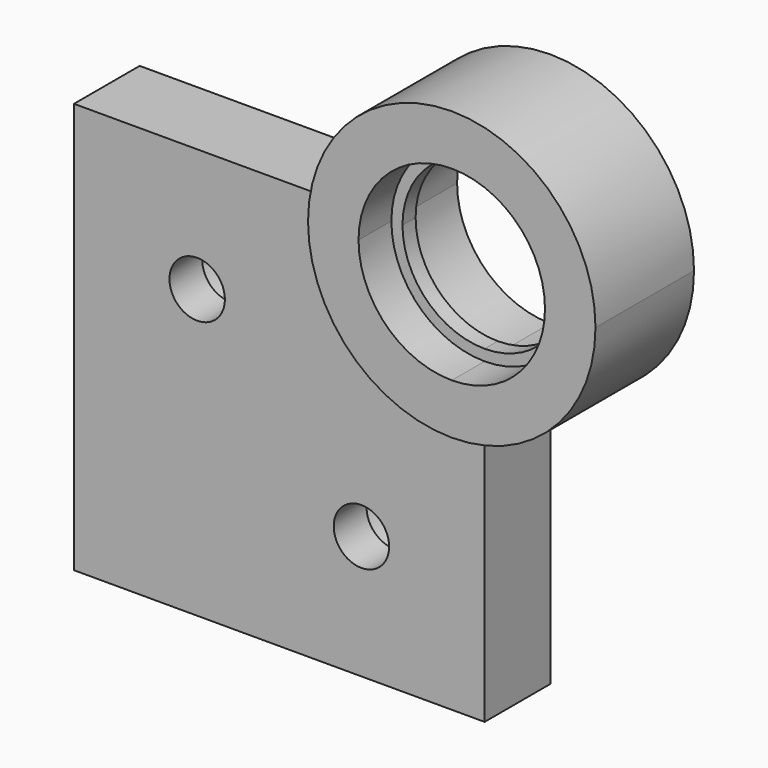
from build123d import *

# Parameters (mm, degrees)
F0_R          = 8.255
F1_DEPTH      = 12.7
F0_R_2        = 4.28625
F2_DEPTH      = 6.35
F3_DEPTH      = 12.7
F3_DEPTH_BACK = 6.35
F4_DEPTH      = 2.54


with BuildPart() as f1:
    # F0 (on Front) → F1 (new body)
    with BuildSketch(Plane.XZ):
        with BuildLine():
            ThreePointArc((0, -22.225), (-15.715448, -15.715448), (-22.225, 0))
            Line((-22.225, 0), (-63.5, 0))
            Line((-63.5, 0), (-63.5, -63.5))
            Line((-63.5, -63.5), (0, -63.5))
            Line((0, -63.5), (0, -22.225))
        make_face()
        with Locations((-19.05, -44.45)):
            Circle(F0_R, mode=Mode.SUBTRACT)
        with Locations((-44.45, -19.05)):
            Circle(F0_R, mode=Mode.SUBTRACT)
    extrude(amount=F1_DEPTH)

    # F0 (on Front) → F2 (join)
    with BuildSketch(Plane.XZ):
        with Locations((-44.45, -19.05)):
            Circle(F0_R)
        with Locations((-44.45, -19.05)):
            Circle(F0_R_2, mode=Mode.SUBTRACT)
        with Locations((-19.05, -44.45)):
            Circle(F0_R)
        with Locations((-19.05, -44.45)):
            Circle(F0_R_2, mode=Mode.SUBTRACT)
    extrude(amount=F2_DEPTH)

    # F0 (on Front) → F3 (join, two sides)
    with BuildSketch(Plane.XZ) as f3_sk:
        with BuildLine():
            ThreePointArc((-14.4145, 0), (0, 14.4145), (14.4145, 0))
            ThreePointArc((14.4145, 0), (10.192591, -10.192591), (0, -14.4145))
            Line((0, -14.4145), (0, -22.225))
            ThreePointArc((0, -22.225), (15.715448, -15.715448), (22.225, 0))
            ThreePointArc((22.225, 0), (0, 22.225), (-22.225, 0))
            Line((-22.225, 0), (-14.4145, 0))
        make_face()
        with BuildLine():
            ThreePointArc((0, -14.4145), (-10.192591, -10.192591), (-14.4145, 0))
            Line((-14.4145, 0), (-22.225, 0))
            ThreePointArc((-22.225, 0), (-15.715448, -15.715448), (0, -22.225))
            Line((0, -22.225), (0, -14.4145))
        make_face()
    extrude(amount=F3_DEPTH)
    extrude(f3_sk.sketch, amount=-F3_DEPTH_BACK)

    # F0 (on Front) → F4 (join)
    with BuildSketch(Plane.XZ):
        with BuildLine():
            ThreePointArc((0, -14.4145), (10.192591, -10.192591), (14.4145, 0))
            ThreePointArc((14.4145, 0), (0, 14.4145), (-14.4145, 0))
            Line((-14.4145, 0), (-12.7, 0))
            ThreePointArc((-12.7, 0), (0, 12.7), (12.7, 0))
            ThreePointArc((12.7, 0), (8.980256, -8.980256), (0, -12.7))
            Line((0, -12.7), (0, -14.4145))
        make_face()
        with BuildLine():
            Line((-12.7, 0), (-14.4145, 0))
            ThreePointArc((-14.4145, 0), (-10.192591, -10.192591), (0, -14.4145))
            Line((0, -14.4145), (0, -12.7))
            ThreePointArc((0, -12.7), (-8.980256, -8.980256), (-12.7, 0))
        make_face()
    extrude(amount=F4_DEPTH)


with BuildPart() as f5_1:
    # F5: instance of F1
    add(f1.part.mirror(Plane.XZ))


solid = f5_1.part
